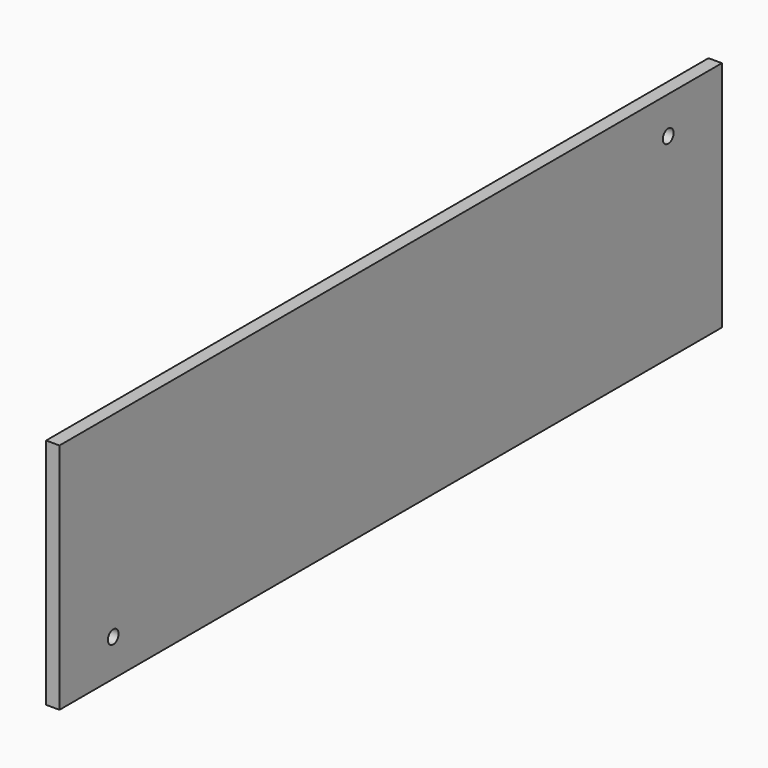
from build123d import *

# Parameters (mm, degrees)
SKETCH_W  = 185
SKETCH_H  = 52
SKETCH_R  = 1.5
PAD_DEPTH = 3


with BuildPart() as part:
    # Sketch → Pad (new body)
    with BuildSketch(Plane.YZ):
        Rectangle(SKETCH_W, SKETCH_H)
        with Locations((-77.5, -17.75)):
            Circle(SKETCH_R, mode=Mode.SUBTRACT)
        with Locations((77.5, 17.75)):
            Circle(SKETCH_R, mode=Mode.SUBTRACT)
    extrude(amount=PAD_DEPTH)


solid = part.part
